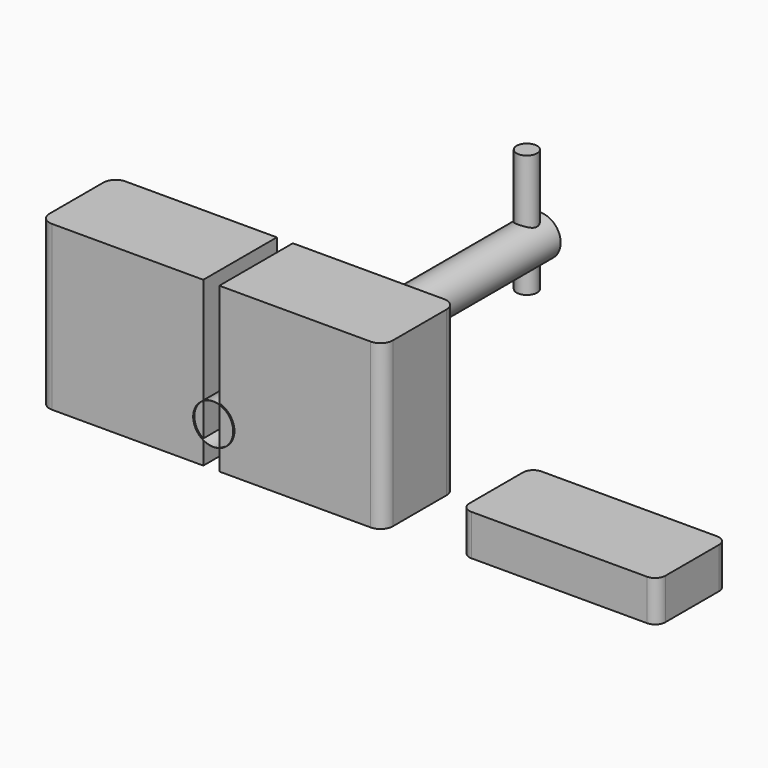
from build123d import *

# Parameters (mm, degrees)
F0_R     = 12.5036687166
F0_R_2   = 12.3778800523
F1_DEPTH = 254
F3_DEPTH = 101.6
F4_R     = 6.35
F5_DEPTH = 76.2
F6_W     = 25.5638659
F6_H     = 27.1847397089
F7_DEPTH = 25.4


with BuildPart() as f1:
    # F0 (on Front) → F1 (new body)
    with BuildSketch(Plane.XZ):
        with Locations((-18.7236908823, 25.1901205629)):
            Circle(F0_R)
        with Locations((-18.7236908823, 25.1901205629)):
            Circle(F0_R_2, mode=Mode.SUBTRACT)
    extrude(amount=F1_DEPTH)

    # F2 (on Top) → F3 (join)
    with BuildSketch(Plane.XY):
        with BuildLine():
            Line((-25.5296746087, -253.2422840595), (-25.5296746087, -196.175172925))
            Line((-25.5296746087, -196.175172925), (-119.5096746087, -196.175172925))
            ThreePointArc((-119.5096746087, -196.175172925), (-124.8978282813, -198.4070192524), (-127.1296746087, -203.795172925))
            Line((-127.1296746087, -203.795172925), (-127.1296746087, -245.6222840595))
            ThreePointArc((-127.1296746087, -245.6222840595), (-124.8978282813, -251.0104377322), (-119.5096746087, -253.2422840595))
            Line((-119.5096746087, -253.2422840595), (-25.5296746087, -253.2422840595))
        make_face()
        with BuildLine():
            Line((-25.5296746087, -253.2422840595), (-25.5296746087, -196.175172925))
            Line((-25.5296746087, -196.175172925), (-119.5096746087, -196.175172925))
            ThreePointArc((-119.5096746087, -196.175172925), (-124.8978282813, -198.4070192524), (-127.1296746087, -203.795172925))
            Line((-127.1296746087, -203.795172925), (-127.1296746087, -245.6222840595))
            ThreePointArc((-127.1296746087, -245.6222840595), (-124.8978282813, -251.0104377322), (-119.5096746087, -253.2422840595))
            Line((-119.5096746087, -253.2422840595), (-25.5296746087, -253.2422840595))
        make_face()
        with BuildLine():
            Line((-15.5854386449, -253.2422840595), (78.3945613551, -253.2422840595))
            ThreePointArc((78.3945613551, -253.2422840595), (83.7827150278, -251.0104377322), (86.0145613551, -245.6222840595))
            Line((86.0145613551, -245.6222840595), (86.0145613551, -203.795172925))
            ThreePointArc((86.0145613551, -203.795172925), (83.7827150278, -198.4070192524), (78.3945613551, -196.175172925))
            Line((78.3945613551, -196.175172925), (-15.5854386449, -196.175172925))
            Line((-15.5854386449, -196.175172925), (-15.5854386449, -253.2422840595))
        make_face()
    extrude(amount=F3_DEPTH)

    # F4 (on Top) → F5 (join)
    with BuildSketch(Plane.XY):
        with Locations((-18.9391057938, -10.3919953108)):
            Circle(F4_R)
    extrude(amount=F5_DEPTH)


with BuildPart() as f7:
    # F6 (on Top) → F7 (new body)
    with BuildSketch(Plane.XY):
        with BuildLine():
            Line((153.9690494537, -193.66581738), (136.772309041, -193.66581738))
            ThreePointArc((136.772309041, -193.66581738), (132.2821809805, -195.5256893194), (130.422309041, -200.01581738))
            Line((130.422309041, -200.01581738), (130.422309041, -220.8505570889))
            Line((130.422309041, -220.8505570889), (153.9690494537, -220.8505570889))
            Line((153.9690494537, -220.8505570889), (153.9690494537, -193.66581738))
        make_face()
        with BuildLine():
            Line((153.9690494537, -248.0352967978), (153.9690494537, -220.8505570889))
            Line((153.9690494537, -220.8505570889), (130.422309041, -220.8505570889))
            Line((130.422309041, -220.8505570889), (130.422309041, -241.6852967978))
            ThreePointArc((130.422309041, -241.6852967978), (132.2821809805, -246.1754248583), (136.772309041, -248.0352967978))
            Line((136.772309041, -248.0352967978), (153.9690494537, -248.0352967978))
        make_face()
        with BuildLine():
            Line((252.1263062954, -220.8505570889), (229.848954941, -220.8505570889))
            Line((229.848954941, -220.8505570889), (229.8617810011, -248.0352967978))
            Line((229.8617810011, -248.0352967978), (245.7763062954, -248.0352967978))
            ThreePointArc((245.7763062954, -248.0352967978), (250.2664343559, -246.1754248583), (252.1263062954, -241.6852967978))
            Line((252.1263062954, -241.6852967978), (252.1263062954, -220.8505570889))
        make_face()
        with Locations((166.7509824038, -207.2581872344)):
            Rectangle(F6_W, F6_H)
        Polygon((204.6531507446, -193.66581738), (179.5329153538, -193.66581738), (179.5329153538, -220.8505570889), (204.6582548496, -220.8505570889), align=None)
        with Locations((166.7509824038, -234.4429269433)):
            Rectangle(F6_W, F6_H)
        Polygon((204.6582548496, -220.8505570889), (179.5329153538, -220.8505570889), (179.5329153538, -248.0352967978), (204.6633589546, -248.0352967978), align=None)
        Polygon((229.848954941, -220.8505570889), (204.6582548496, -220.8505570889), (204.6633589546, -248.0352967978), (229.8617810011, -248.0352967978), align=None)
        Polygon((229.836128881, -193.66581738), (204.6531507446, -193.66581738), (204.6582548496, -220.8505570889), (229.848954941, -220.8505570889), align=None)
        with BuildLine():
            Line((245.7763062954, -193.66581738), (229.836128881, -193.66581738))
            Line((229.836128881, -193.66581738), (229.848954941, -220.8505570889))
            Line((229.848954941, -220.8505570889), (252.1263062954, -220.8505570889))
            Line((252.1263062954, -220.8505570889), (252.1263062954, -200.01581738))
            ThreePointArc((252.1263062954, -200.01581738), (250.2664343559, -195.5256893194), (245.7763062954, -193.66581738))
        make_face()
    extrude(amount=F7_DEPTH)


solid = Compound([f1.part, f7.part])
